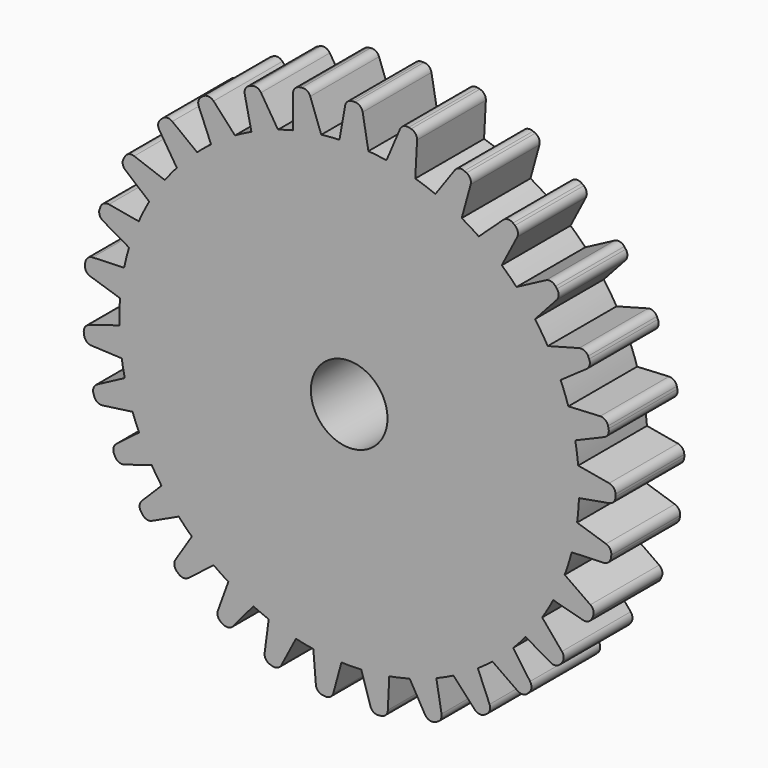
from build123d import *

# Parameters (mm, degrees)
F0_R     = 38.1
F0_R_2   = 6.35
F1_DEPTH = 7.874
F3_DEPTH = 7.8232
F5_DEPTH = 7.0358
F7_DEPTH = 6.35
F8_DEPTH = 14.2494


with BuildPart() as f1:
    # F0 (on Front) → F1 (new body)
    with BuildSketch(Plane.XZ):
        Circle(F0_R)
        Circle(F0_R_2, mode=Mode.SUBTRACT)
    extrude(amount=F1_DEPTH)

    # F2 (on Front) → F3, piece 2 (join)
    with BuildSketch(Plane.XZ):
        with BuildLine():
            Line((10.2679013204, 43.5190616955), (9.8696660429, 43.6108967437))
            ThreePointArc((9.8696660429, 43.6108967437), (9.0074367516, 43.5048095879), (8.4151223035, 42.8693118066))
            Line((8.4151223035, 42.8693118066), (5.9306011535, 37.012077868))
            Line((5.9306011535, 37.012077868), (10.9194045859, 35.8616348266))
            Line((10.9194045859, 35.8616348266), (11.2507987856, 42.2153906168))
            ThreePointArc((11.2507987856, 42.2153906168), (10.9965987869, 43.0460988665), (10.2679013204, 43.5190616955))
        make_face()
        with BuildLine():
            Line((19.447262607, 40.0796589121), (19.0780526418, 40.2548987873))
            ThreePointArc((19.0780526418, 40.2548987873), (18.2131635938, 40.3365123278), (17.498159972, 39.8430919631))
            Line((17.498159972, 39.8430919631), (13.8133931905, 34.6563272178))
            Line((13.8133931905, 34.6563272178), (18.438588511, 32.4610488469))
            Line((18.438588511, 32.4610488469), (20.1271586433, 38.5952778665))
            ThreePointArc((20.1271586433, 38.5952778665), (20.0573458836, 39.4611993491), (19.447262607, 40.0796589121))
        make_face()
        with BuildLine():
            Line((27.4769414982, 35.0250656384), (27.151967035, 35.2728893874))
            ThreePointArc((27.151967035, 35.2728893874), (26.3226671907, 35.5316471963), (25.5210603399, 35.1968035132))
            Line((25.5210603399, 35.1968035132), (20.8430662751, 30.8844484389))
            Line((20.8430662751, 30.8844484389), (24.9141112304, 27.7798918119))
            Line((24.9141112304, 27.7798918119), (27.8350754326, 33.432148254))
            ThreePointArc((27.8350754326, 33.432148254), (27.9458957222, 34.2937819922), (27.4769414982, 35.0250656384))
        make_face()
        with BuildLine():
            Line((34.4393508649, 28.0296262242), (34.1887403018, 28.3524564551))
            ThreePointArc((34.1887403018, 28.3524564551), (33.4534489752, 28.8151015679), (32.5928005942, 28.6968721315))
            Line((32.5928005942, 28.6968721315), (26.9658844918, 25.727385655))
            Line((26.9658844918, 25.727385655), (30.1053523095, 21.683202091))
            Line((30.1053523095, 21.683202091), (34.3772996584, 26.3981252723))
            ThreePointArc((34.3772996584, 26.3981252723), (34.7052341535, 27.2025833522), (34.4393508649, 28.0296262242))
        make_face()
        with BuildLine():
            Line((39.7699824109, 19.5339631284), (39.597263848, 19.9043592817))
            ThreePointArc((39.597263848, 19.9043592817), (38.9829781509, 20.5186449788), (38.1175527712, 20.5943598886))
            Line((38.1175527712, 20.5943598886), (31.9719538093, 18.9476516098))
            Line((31.9719538093, 18.9476516098), (34.1356470022, 14.3075965837))
            Line((34.1356470022, 14.3075965837), (39.3474135955, 17.9569148397))
            ThreePointArc((39.3474135955, 17.9569148397), (39.8456973207, 18.6685377487), (39.7699824109, 19.5339631284))
        make_face()
        with BuildLine():
            Line((42.9917894114, 10.4062598948), (42.8999346611, 10.8044906283))
            ThreePointArc((42.8999346611, 10.8044906283), (42.4269357812, 11.5331646947), (41.5962149563, 11.7873235948))
            Line((41.5962149563, 11.7873235948), (35.2424755692, 11.4556150511))
            Line((35.2424755692, 11.4556150511), (36.3931654243, 6.4668685416))
            Line((36.3931654243, 6.4668685416), (42.250276437, 8.9516794682))
            ThreePointArc((42.250276437, 8.9516794682), (42.8857449135, 9.544025356), (42.9917894114, 10.4062598948))
        make_face()
        with BuildLine():
            Line((44.1325830211, 0.834793291), (44.1325830211, 1.2434802278))
            ThreePointArc((44.1325830211, 1.2434802278), (43.8354594639, 2.0598204921), (43.0831162068, 2.4941860741))
            Line((43.0831162068, 2.4941860741), (36.8173830211, 3.5990038887))
            Line((36.8173830211, 3.5990038887), (36.8173830211, -1.5207303699))
            Line((36.8173830211, -1.5207303699), (43.0831162068, -0.4159125553))
            ThreePointArc((43.0831162068, -0.4159125553), (43.8354594639, 0.0184530267), (44.1325830211, 0.834793291))
        make_face()
        with BuildLine():
            Line((43.377571664, -8.3112167626), (43.4338103643, -7.9064177744))
            ThreePointArc((43.4338103643, -7.9064177744), (43.2518485908, -7.0569569169), (42.5664348713, -6.5231949209))
            Line((42.5664348713, -6.5231949209), (36.5123413503, -4.5666708611))
            Line((36.5123413503, -4.5666708611), (35.8078236009, -9.6376997132))
            Line((35.8078236009, -9.6376997132), (42.1659812474, -9.4056090008))
            ThreePointArc((42.1659812474, -9.4056090008), (42.9709395553, -9.0789043056), (43.377571664, -8.3112167626))
        make_face()
        with BuildLine():
            Line((40.2232244928, -18.1945638618), (40.3959430556, -17.8241677085))
            ThreePointArc((40.3959430556, -17.8241677085), (40.4716579655, -16.9587423288), (39.9733742403, -16.2471194198))
            Line((39.9733742403, -16.2471194198), (34.7616076469, -12.5978011638))
            Line((34.7616076469, -12.5978011638), (32.597914454, -17.2378561899))
            Line((32.597914454, -17.2378561899), (38.743513416, -18.8845644687))
            ThreePointArc((38.743513416, -18.8845644687), (39.6089387957, -18.8088495589), (40.2232244928, -18.1945638618))
        make_face()
        with BuildLine():
            Line((34.9914390476, -26.5393107242), (35.2541379468, -26.2262383673))
            ThreePointArc((35.2541379468, -26.2262383673), (35.551261504, -25.409898103), (35.2541379468, -24.5935578387))
            Line((35.2541379468, -24.5935578387), (31.16447106, -19.7196826339))
            Line((31.16447106, -19.7196826339), (27.8735693137, -23.6416266129))
            Line((27.8735693137, -23.6416266129), (33.3835626048, -26.8228227227))
            ThreePointArc((33.3835626048, -26.8228227227), (34.2390957905, -26.9736763062), (34.9914390476, -26.5393107242))
        make_face()
        with BuildLine():
            Line((29.5506001195, -32.5987355375), (29.8395854239, -32.3097502331))
            ThreePointArc((29.8395854239, -32.3097502331), (30.2067270783, -31.5224124143), (29.981882908, -30.6832825469))
            Line((29.981882908, -30.6832825469), (26.332564652, -25.4715159535))
            Line((26.332564652, -25.4715159535), (22.7123658399, -29.0917147656))
            Line((22.7123658399, -29.0917147656), (27.9241324332, -32.7410330217))
            ThreePointArc((27.9241324332, -32.7410330217), (28.7632623006, -32.965877192), (29.5506001195, -32.5987355375))
        make_face()
        with BuildLine():
            Line((22.4380749452, -37.9914671267), (22.7818615724, -37.7704789658))
            ThreePointArc((22.7818615724, -37.7704789658), (23.3079025545, -37.0791218073), (23.2664775103, -36.2113788724))
            Line((23.2664775103, -36.2113788724), (20.8077953917, -30.3432516587))
            Line((20.8077953917, -30.3432516587), (16.5010852566, -33.1116314538))
            Line((16.5010852566, -33.1116314538), (20.818508411, -37.7849484838))
            ThreePointArc((20.818508411, -37.7849484838), (21.5907083587, -38.1829448107), (22.4380749452, -37.9914671267))
        make_face()
        with BuildLine():
            Line((14.1053338125, -41.7560889597), (14.4895994704, -41.6169310766))
            ThreePointArc((14.4895994704, -41.6169310766), (15.1559883835, -41.0595984542), (15.3082254031, -40.2043103594))
            Line((15.3082254031, -40.2043103594), (14.2135424539, -33.9367985725))
            Line((14.2135424539, -33.9367985725), (9.3997403076, -35.6800678501))
            Line((9.3997403076, -35.6800678501), (12.5720210766, -41.1951988077))
            ThreePointArc((12.5720210766, -41.1951988077), (13.2366037845, -41.7546839815), (14.1053338125, -41.7560889597))
        make_face()
        with BuildLine():
            Line((4.8886085959, -43.7949606725), (5.2940297944, -43.7433984373))
            ThreePointArc((5.2940297944, -43.7433984373), (6.0663600678, -43.3456550725), (6.4023348752, -42.5445216478))
            Line((6.4023348752, -42.5445216478), (6.7078042775, -36.1894667149))
            Line((6.7078042775, -36.1894667149), (1.6289808253, -36.835401092))
            Line((1.6289808253, -36.835401092), (3.5154902811, -42.911676006))
            ThreePointArc((3.5154902811, -42.911676006), (4.041304775, -43.6032054366), (4.8886085959, -43.7949606725))
        make_face()
        with BuildLine():
            Line((-4.369675498, -43.8731547843), (-3.9627079504, -43.9106037837))
            ThreePointArc((-3.9627079504, -43.9106037837), (-3.1225759463, -43.6895335435), (-2.6210987044, -42.9801574717))
            Line((-2.6210987044, -42.9801574717), (-0.9467842756, -36.8420220912))
            Line((-0.9467842756, -36.8420220912), (-6.0449792695, -36.3728881203))
            Line((-6.0449792695, -36.3728881203), (-5.5189542405, -42.7134979038))
            ThreePointArc((-5.5189542405, -42.7134979038), (-5.1553551625, -43.5024779706), (-4.369675498, -43.8731547843))
        make_face()
        with BuildLine():
            Line((-13.1343358268, -42.2133241095), (-12.7445647982, -42.3362206416))
            ThreePointArc((-12.7445647982, -42.3362206416), (-11.8766602793, -42.2983315739), (-11.2361614687, -41.711428593))
            Line((-11.2361614687, -41.711428593), (-8.2983067259, -36.0679328442))
            Line((-8.2983067259, -36.0679328442), (-13.1810761718, -34.5283740057))
            Line((-13.1810761718, -34.5283740057), (-14.0115673696, -40.8363308165))
            ThreePointArc((-14.0115673696, -40.8363308165), (-13.8235438839, -41.6844705481), (-13.1343358268, -42.2133241095))
        make_face()
        with BuildLine():
            Line((-21.1964485851, -38.7163909075), (-20.8422183259, -38.9202191092))
            ThreePointArc((-20.8422183259, -38.9202191092), (-19.9864665212, -39.0698275452), (-19.2347561576, -38.6343675991))
            Line((-19.2347561576, -38.6343675991), (-15.1521861553, -33.7545461953))
            Line((-15.1521861553, -33.7545461953), (-19.5897265556, -31.201133954))
            Line((-19.5897265556, -31.201133954), (-21.7570902447, -37.1829872953))
            ThreePointArc((-21.7570902447, -37.1829872953), (-21.7558260509, -38.0517175395), (-21.1964485851, -38.7163909075))
        make_face()
        with BuildLine():
            Line((-28.5795182013, -33.6574874121), (-28.2782419609, -33.9336352698))
            ThreePointArc((-28.2782419609, -33.9336352698), (-27.475686435, -34.2661987423), (-26.6471255545, -34.0050843943))
            Line((-26.6471255545, -34.0050843943), (-21.5989481658, -30.132625252))
            Line((-21.5989481658, -30.132625252), (-25.3731189313, -26.6732446845))
            Line((-25.3731189313, -26.6732446845), (-28.7923949411, -32.0387443188))
            ThreePointArc((-28.7923949411, -32.0387443188), (-28.9805437226, -32.8868562639), (-28.5795182013, -33.6574874121))
        make_face()
        with BuildLine():
            Line((-34.5026981003, -26.8843930355), (-34.2682849035, -27.2191697753))
            ThreePointArc((-34.2682849035, -27.2191697753), (-33.5566619946, -27.7174535005), (-32.6912366149, -27.6417385906))
            Line((-32.6912366149, -27.6417385906), (-26.924951002, -24.9528754503))
            Line((-26.924951002, -24.9528754503), (-29.8615099331, -20.7590346661))
            Line((-29.8615099331, -20.7590346661), (-34.3604006162, -25.2579253492))
            ThreePointArc((-34.3604006162, -25.2579253492), (-34.7275422707, -26.0452631681), (-34.5026981003, -26.8843930355))
        make_face()
        with BuildLine():
            Line((-38.9540461379, -19.9297172706), (-38.7663086186, -20.2927319207))
            ThreePointArc((-38.7663086186, -20.2927319207), (-38.127389493, -20.8813541989), (-37.2595899401, -20.9215757267))
            Line((-37.2595899401, -20.9215757267), (-31.1865583062, -19.0246514976))
            Line((-31.1865583062, -19.0246514976), (-33.5383981196, -14.4770666033))
            Line((-33.5383981196, -14.4770666033), (-38.596394835, -18.3366914534))
            ThreePointArc((-38.596394835, -18.3366914534), (-39.0651274764, -19.0681171478), (-38.9540461379, -19.9297172706))
        make_face()
        with BuildLine():
            Line((-42.3819013326, -12.2005909419), (-42.2565982872, -12.5895950025))
            ThreePointArc((-42.2565982872, -12.5895950025), (-41.7234953866, -13.2755214802), (-40.874209831, -13.4582997076))
            Line((-40.874209831, -13.4582997076), (-34.571506083, -12.588839978))
            Line((-34.571506083, -12.588839978), (-36.1412119784, -7.7156785524))
            Line((-36.1412119784, -7.7156785524), (-41.7664434401, -10.6883550836))
            ThreePointArc((-41.7664434401, -10.6883550836), (-42.3493768061, -11.3324688361), (-42.3819013326, -12.2005909419))
        make_face()
        with BuildLine():
            Line((-43.9796825657, -3.81763871), (-43.9268983461, -4.2229026221))
            ThreePointArc((-43.9268983461, -4.2229026221), (-43.5268284532, -4.9940303134), (-42.7246858095, -5.3275884261))
            Line((-42.7246858095, -5.3275884261), (-36.3687388599, -5.6138979271))
            Line((-36.3687388599, -5.6138979271), (-37.0299813742, -0.5370448452))
            Line((-37.0299813742, -0.5370448452), (-43.1005414375, -2.4418638065))
            ThreePointArc((-43.1005414375, -2.4418638065), (-43.7904825586, -2.9697606571), (-43.9796825657, -3.81763871))
        make_face()
        with BuildLine():
            Line((-43.7294851204, 6.5065346274), (-43.7854562222, 6.1016985518))
            ThreePointArc((-43.7854562222, 6.1016985518), (-43.6029329651, 5.252358163), (-42.9171665599, 4.719049366))
            Line((-42.9171665599, 4.719049366), (-36.8617810309, 2.7665277012))
            Line((-36.8617810309, 2.7665277012), (-36.1606155627, 7.8380211562))
            Line((-36.1606155627, 7.8380211562), (-42.5186184, 7.60172753))
            ThreePointArc((-42.5186184, 7.60172753), (-43.3233605689, 7.2744908006), (-43.7294851204, 6.5065346274))
        make_face()
        with BuildLine():
            Line((-41.2175685952, 15.404759065), (-41.3573477599, 15.0207189662))
            ThreePointArc((-41.3573477599, 15.0207189662), (-41.3573477599, 14.1519878022), (-40.7989381315, 13.4865011214))
            Line((-40.7989381315, 13.4865011214), (-35.2889448404, 10.3053050116))
            Line((-35.2889448404, 10.3053050116), (-33.5378925955, 15.1162815147))
            Line((-33.5378925955, 15.1162815147), (-39.8036257812, 16.2210993293))
            ThreePointArc((-39.8036257812, 16.2210993293), (-40.6591589668, 16.0702457458), (-41.2175685952, 15.404759065))
        make_face()
        with BuildLine():
            Line((-37.1665118395, 24.0645031643), (-37.3708553079, 23.7105698948))
            ThreePointArc((-37.3708553079, 23.7105698948), (-37.5217088914, 22.8550367092), (-37.0873433094, 22.1026934521))
            Line((-37.0873433094, 22.1026934521), (-32.2134681046, 18.0130265653))
            Line((-32.2134681046, 18.0130265653), (-29.6536009753, 22.4468464938))
            Line((-29.6536009753, 22.4468464938), (-35.6322939947, 24.6229127927))
            ThreePointArc((-35.6322939947, 24.6229127927), (-36.5010251587, 24.6229127927), (-37.1665118395, 24.0645031643))
        make_face()
        with BuildLine():
            Line((-30.9443189455, 31.6571580291), (-31.2457878784, 31.3812205456))
            ThreePointArc((-31.2457878784, 31.3812205456), (-31.6473512437, 30.6108695223), (-31.4597945353, 29.762626446))
            Line((-31.4597945353, 29.762626446), (-28.0442647636, 24.3947412819))
            Line((-28.0442647636, 24.3947412819), (-24.2676800854, 27.851486434))
            Line((-24.2676800854, 27.851486434), (-29.3131530612, 31.7274685299))
            ThreePointArc((-29.3131530612, 31.7274685299), (-30.1415314681, 31.989161194), (-30.9443189455, 31.6571580291))
        make_face()
        with BuildLine():
            Line((-24.0892848676, 37.1402189038), (-24.4337996021, 36.9203675675))
            ThreePointArc((-24.4337996021, 36.9203675675), (-24.9621214515, 36.2307518348), (-24.92356302, 35.3628767961))
            Line((-24.92356302, 35.3628767961), (-22.4842783064, 29.4866599143))
            Line((-22.4842783064, 29.4866599143), (-18.1684469702, 32.2407983922))
            Line((-18.1684469702, 32.2407983922), (-22.4704093557, 36.9283515269))
            ThreePointArc((-22.4704093557, 36.9283515269), (-23.2412904023, 37.328896465), (-24.0892848676, 37.1402189038))
        make_face()
        with BuildLine():
            Line((-16.1651956467, 41.207804094), (-16.5436923754, 41.053644311))
            ThreePointArc((-16.5436923754, 41.053644311), (-17.1876513394, 40.4705399567), (-17.3061402712, 39.6099272631))
            Line((-17.3061402712, 39.6099272631), (-15.9658621997, 33.3903059363))
            Line((-15.9658621997, 33.3903059363), (-11.2243290258, 35.3215081627))
            Line((-11.2243290258, 35.3215081627), (-14.611014217, 40.7076383293))
            ThreePointArc((-14.611014217, 40.7076383293), (-15.2970822066, 41.2405591012), (-16.1651956467, 41.207804094))
        make_face()
        with BuildLine():
            Line((-7.8621423412, 43.6358739028), (-8.2646204052, 43.564906161))
            ThreePointArc((-8.2646204052, 43.564906161), (-9.0169636623, 43.130540579), (-9.3140872195, 42.3142003146))
            Line((-9.3140872195, 42.3142003146), (-9.3140872195, 35.951808095))
            Line((-9.3140872195, 35.951808095), (-4.2721332283, 36.8408406191))
            Line((-4.2721332283, 36.8408406191), (-6.4481995272, 42.8195336385))
            ThreePointArc((-6.4481995272, 42.8195336385), (-7.0066091556, 43.4850203193), (-7.8621423412, 43.6358739028))
        make_face()
        with BuildLine():
            Line((0.9862106797, 44.3999471058), (0.5775237429, 44.3999471058))
            ThreePointArc((0.5775237429, 44.3999471058), (-0.2388165214, 44.1028235486), (-0.6731821034, 43.3504802915))
            Line((-0.6731821034, 43.3504802915), (-1.777999918, 37.0847471058))
            Line((-1.777999918, 37.0847471058), (3.3417343406, 37.0847471058))
            Line((3.3417343406, 37.0847471058), (2.236916526, 43.3504802915))
            ThreePointArc((2.236916526, 43.3504802915), (1.802550944, 44.1028235486), (0.9862106797, 44.3999471058))
        make_face()
    extrude(amount=F3_DEPTH)

    # F2 (on Front) → F5, piece 2 (join)
    with BuildSketch(Plane.XZ):
        with BuildLine():
            Line((10.2679013204, 43.5190616955), (9.8696660429, 43.6108967437))
            ThreePointArc((9.8696660429, 43.6108967437), (9.0074367516, 43.5048095879), (8.4151223035, 42.8693118066))
            Line((8.4151223035, 42.8693118066), (5.9306011535, 37.012077868))
            Line((5.9306011535, 37.012077868), (10.9194045859, 35.8616348266))
            Line((10.9194045859, 35.8616348266), (11.2507987856, 42.2153906168))
            ThreePointArc((11.2507987856, 42.2153906168), (10.9965987869, 43.0460988665), (10.2679013204, 43.5190616955))
        make_face()
        with BuildLine():
            Line((19.447262607, 40.0796589121), (19.0780526418, 40.2548987873))
            ThreePointArc((19.0780526418, 40.2548987873), (18.2131635938, 40.3365123278), (17.498159972, 39.8430919631))
            Line((17.498159972, 39.8430919631), (13.8133931905, 34.6563272178))
            Line((13.8133931905, 34.6563272178), (18.438588511, 32.4610488469))
            Line((18.438588511, 32.4610488469), (20.1271586433, 38.5952778665))
            ThreePointArc((20.1271586433, 38.5952778665), (20.0573458836, 39.4611993491), (19.447262607, 40.0796589121))
        make_face()
        with BuildLine():
            Line((27.4769414982, 35.0250656384), (27.151967035, 35.2728893874))
            ThreePointArc((27.151967035, 35.2728893874), (26.3226671907, 35.5316471963), (25.5210603399, 35.1968035132))
            Line((25.5210603399, 35.1968035132), (20.8430662751, 30.8844484389))
            Line((20.8430662751, 30.8844484389), (24.9141112304, 27.7798918119))
            Line((24.9141112304, 27.7798918119), (27.8350754326, 33.432148254))
            ThreePointArc((27.8350754326, 33.432148254), (27.9458957222, 34.2937819922), (27.4769414982, 35.0250656384))
        make_face()
        with BuildLine():
            Line((34.4393508649, 28.0296262242), (34.1887403018, 28.3524564551))
            ThreePointArc((34.1887403018, 28.3524564551), (33.4534489752, 28.8151015679), (32.5928005942, 28.6968721315))
            Line((32.5928005942, 28.6968721315), (26.9658844918, 25.727385655))
            Line((26.9658844918, 25.727385655), (30.1053523095, 21.683202091))
            Line((30.1053523095, 21.683202091), (34.3772996584, 26.3981252723))
            ThreePointArc((34.3772996584, 26.3981252723), (34.7052341535, 27.2025833522), (34.4393508649, 28.0296262242))
        make_face()
        with BuildLine():
            Line((39.7699824109, 19.5339631284), (39.597263848, 19.9043592817))
            ThreePointArc((39.597263848, 19.9043592817), (38.9829781509, 20.5186449788), (38.1175527712, 20.5943598886))
            Line((38.1175527712, 20.5943598886), (31.9719538093, 18.9476516098))
            Line((31.9719538093, 18.9476516098), (34.1356470022, 14.3075965837))
            Line((34.1356470022, 14.3075965837), (39.3474135955, 17.9569148397))
            ThreePointArc((39.3474135955, 17.9569148397), (39.8456973207, 18.6685377487), (39.7699824109, 19.5339631284))
        make_face()
        with BuildLine():
            Line((42.9917894114, 10.4062598948), (42.8999346611, 10.8044906283))
            ThreePointArc((42.8999346611, 10.8044906283), (42.4269357812, 11.5331646947), (41.5962149563, 11.7873235948))
            Line((41.5962149563, 11.7873235948), (35.2424755692, 11.4556150511))
            Line((35.2424755692, 11.4556150511), (36.3931654243, 6.4668685416))
            Line((36.3931654243, 6.4668685416), (42.250276437, 8.9516794682))
            ThreePointArc((42.250276437, 8.9516794682), (42.8857449135, 9.544025356), (42.9917894114, 10.4062598948))
        make_face()
        with BuildLine():
            Line((44.1325830211, 0.834793291), (44.1325830211, 1.2434802278))
            ThreePointArc((44.1325830211, 1.2434802278), (43.8354594639, 2.0598204921), (43.0831162068, 2.4941860741))
            Line((43.0831162068, 2.4941860741), (36.8173830211, 3.5990038887))
            Line((36.8173830211, 3.5990038887), (36.8173830211, -1.5207303699))
            Line((36.8173830211, -1.5207303699), (43.0831162068, -0.4159125553))
            ThreePointArc((43.0831162068, -0.4159125553), (43.8354594639, 0.0184530267), (44.1325830211, 0.834793291))
        make_face()
        with BuildLine():
            Line((43.377571664, -8.3112167626), (43.4338103643, -7.9064177744))
            ThreePointArc((43.4338103643, -7.9064177744), (43.2518485908, -7.0569569169), (42.5664348713, -6.5231949209))
            Line((42.5664348713, -6.5231949209), (36.5123413503, -4.5666708611))
            Line((36.5123413503, -4.5666708611), (35.8078236009, -9.6376997132))
            Line((35.8078236009, -9.6376997132), (42.1659812474, -9.4056090008))
            ThreePointArc((42.1659812474, -9.4056090008), (42.9709395553, -9.0789043056), (43.377571664, -8.3112167626))
        make_face()
        with BuildLine():
            Line((40.2232244928, -18.1945638618), (40.3959430556, -17.8241677085))
            ThreePointArc((40.3959430556, -17.8241677085), (40.4716579655, -16.9587423288), (39.9733742403, -16.2471194198))
            Line((39.9733742403, -16.2471194198), (34.7616076469, -12.5978011638))
            Line((34.7616076469, -12.5978011638), (32.597914454, -17.2378561899))
            Line((32.597914454, -17.2378561899), (38.743513416, -18.8845644687))
            ThreePointArc((38.743513416, -18.8845644687), (39.6089387957, -18.8088495589), (40.2232244928, -18.1945638618))
        make_face()
        with BuildLine():
            Line((34.9914390476, -26.5393107242), (35.2541379468, -26.2262383673))
            ThreePointArc((35.2541379468, -26.2262383673), (35.551261504, -25.409898103), (35.2541379468, -24.5935578387))
            Line((35.2541379468, -24.5935578387), (31.16447106, -19.7196826339))
            Line((31.16447106, -19.7196826339), (27.8735693137, -23.6416266129))
            Line((27.8735693137, -23.6416266129), (33.3835626048, -26.8228227227))
            ThreePointArc((33.3835626048, -26.8228227227), (34.2390957905, -26.9736763062), (34.9914390476, -26.5393107242))
        make_face()
        with BuildLine():
            Line((29.5506001195, -32.5987355375), (29.8395854239, -32.3097502331))
            ThreePointArc((29.8395854239, -32.3097502331), (30.2067270783, -31.5224124143), (29.981882908, -30.6832825469))
            Line((29.981882908, -30.6832825469), (26.332564652, -25.4715159535))
            Line((26.332564652, -25.4715159535), (22.7123658399, -29.0917147656))
            Line((22.7123658399, -29.0917147656), (27.9241324332, -32.7410330217))
            ThreePointArc((27.9241324332, -32.7410330217), (28.7632623006, -32.965877192), (29.5506001195, -32.5987355375))
        make_face()
        with BuildLine():
            Line((22.4380749452, -37.9914671267), (22.7818615724, -37.7704789658))
            ThreePointArc((22.7818615724, -37.7704789658), (23.3079025545, -37.0791218073), (23.2664775103, -36.2113788724))
            Line((23.2664775103, -36.2113788724), (20.8077953917, -30.3432516587))
            Line((20.8077953917, -30.3432516587), (16.5010852566, -33.1116314538))
            Line((16.5010852566, -33.1116314538), (20.818508411, -37.7849484838))
            ThreePointArc((20.818508411, -37.7849484838), (21.5907083587, -38.1829448107), (22.4380749452, -37.9914671267))
        make_face()
        with BuildLine():
            Line((14.1053338125, -41.7560889597), (14.4895994704, -41.6169310766))
            ThreePointArc((14.4895994704, -41.6169310766), (15.1559883835, -41.0595984542), (15.3082254031, -40.2043103594))
            Line((15.3082254031, -40.2043103594), (14.2135424539, -33.9367985725))
            Line((14.2135424539, -33.9367985725), (9.3997403076, -35.6800678501))
            Line((9.3997403076, -35.6800678501), (12.5720210766, -41.1951988077))
            ThreePointArc((12.5720210766, -41.1951988077), (13.2366037845, -41.7546839815), (14.1053338125, -41.7560889597))
        make_face()
        with BuildLine():
            Line((4.8886085959, -43.7949606725), (5.2940297944, -43.7433984373))
            ThreePointArc((5.2940297944, -43.7433984373), (6.0663600678, -43.3456550725), (6.4023348752, -42.5445216478))
            Line((6.4023348752, -42.5445216478), (6.7078042775, -36.1894667149))
            Line((6.7078042775, -36.1894667149), (1.6289808253, -36.835401092))
            Line((1.6289808253, -36.835401092), (3.5154902811, -42.911676006))
            ThreePointArc((3.5154902811, -42.911676006), (4.041304775, -43.6032054366), (4.8886085959, -43.7949606725))
        make_face()
        with BuildLine():
            Line((-4.369675498, -43.8731547843), (-3.9627079504, -43.9106037837))
            ThreePointArc((-3.9627079504, -43.9106037837), (-3.1225759463, -43.6895335435), (-2.6210987044, -42.9801574717))
            Line((-2.6210987044, -42.9801574717), (-0.9467842756, -36.8420220912))
            Line((-0.9467842756, -36.8420220912), (-6.0449792695, -36.3728881203))
            Line((-6.0449792695, -36.3728881203), (-5.5189542405, -42.7134979038))
            ThreePointArc((-5.5189542405, -42.7134979038), (-5.1553551625, -43.5024779706), (-4.369675498, -43.8731547843))
        make_face()
        with BuildLine():
            Line((-13.1343358268, -42.2133241095), (-12.7445647982, -42.3362206416))
            ThreePointArc((-12.7445647982, -42.3362206416), (-11.8766602793, -42.2983315739), (-11.2361614687, -41.711428593))
            Line((-11.2361614687, -41.711428593), (-8.2983067259, -36.0679328442))
            Line((-8.2983067259, -36.0679328442), (-13.1810761718, -34.5283740057))
            Line((-13.1810761718, -34.5283740057), (-14.0115673696, -40.8363308165))
            ThreePointArc((-14.0115673696, -40.8363308165), (-13.8235438839, -41.6844705481), (-13.1343358268, -42.2133241095))
        make_face()
        with BuildLine():
            Line((-21.1964485851, -38.7163909075), (-20.8422183259, -38.9202191092))
            ThreePointArc((-20.8422183259, -38.9202191092), (-19.9864665212, -39.0698275452), (-19.2347561576, -38.6343675991))
            Line((-19.2347561576, -38.6343675991), (-15.1521861553, -33.7545461953))
            Line((-15.1521861553, -33.7545461953), (-19.5897265556, -31.201133954))
            Line((-19.5897265556, -31.201133954), (-21.7570902447, -37.1829872953))
            ThreePointArc((-21.7570902447, -37.1829872953), (-21.7558260509, -38.0517175395), (-21.1964485851, -38.7163909075))
        make_face()
        with BuildLine():
            Line((-28.5795182013, -33.6574874121), (-28.2782419609, -33.9336352698))
            ThreePointArc((-28.2782419609, -33.9336352698), (-27.475686435, -34.2661987423), (-26.6471255545, -34.0050843943))
            Line((-26.6471255545, -34.0050843943), (-21.5989481658, -30.132625252))
            Line((-21.5989481658, -30.132625252), (-25.3731189313, -26.6732446845))
            Line((-25.3731189313, -26.6732446845), (-28.7923949411, -32.0387443188))
            ThreePointArc((-28.7923949411, -32.0387443188), (-28.9805437226, -32.8868562639), (-28.5795182013, -33.6574874121))
        make_face()
        with BuildLine():
            Line((-34.5026981003, -26.8843930355), (-34.2682849035, -27.2191697753))
            ThreePointArc((-34.2682849035, -27.2191697753), (-33.5566619946, -27.7174535005), (-32.6912366149, -27.6417385906))
            Line((-32.6912366149, -27.6417385906), (-26.924951002, -24.9528754503))
            Line((-26.924951002, -24.9528754503), (-29.8615099331, -20.7590346661))
            Line((-29.8615099331, -20.7590346661), (-34.3604006162, -25.2579253492))
            ThreePointArc((-34.3604006162, -25.2579253492), (-34.7275422707, -26.0452631681), (-34.5026981003, -26.8843930355))
        make_face()
        with BuildLine():
            Line((-38.9540461379, -19.9297172706), (-38.7663086186, -20.2927319207))
            ThreePointArc((-38.7663086186, -20.2927319207), (-38.127389493, -20.8813541989), (-37.2595899401, -20.9215757267))
            Line((-37.2595899401, -20.9215757267), (-31.1865583062, -19.0246514976))
            Line((-31.1865583062, -19.0246514976), (-33.5383981196, -14.4770666033))
            Line((-33.5383981196, -14.4770666033), (-38.596394835, -18.3366914534))
            ThreePointArc((-38.596394835, -18.3366914534), (-39.0651274764, -19.0681171478), (-38.9540461379, -19.9297172706))
        make_face()
        with BuildLine():
            Line((-42.3819013326, -12.2005909419), (-42.2565982872, -12.5895950025))
            ThreePointArc((-42.2565982872, -12.5895950025), (-41.7234953866, -13.2755214802), (-40.874209831, -13.4582997076))
            Line((-40.874209831, -13.4582997076), (-34.571506083, -12.588839978))
            Line((-34.571506083, -12.588839978), (-36.1412119784, -7.7156785524))
            Line((-36.1412119784, -7.7156785524), (-41.7664434401, -10.6883550836))
            ThreePointArc((-41.7664434401, -10.6883550836), (-42.3493768061, -11.3324688361), (-42.3819013326, -12.2005909419))
        make_face()
        with BuildLine():
            Line((-43.9796825657, -3.81763871), (-43.9268983461, -4.2229026221))
            ThreePointArc((-43.9268983461, -4.2229026221), (-43.5268284532, -4.9940303134), (-42.7246858095, -5.3275884261))
            Line((-42.7246858095, -5.3275884261), (-36.3687388599, -5.6138979271))
            Line((-36.3687388599, -5.6138979271), (-37.0299813742, -0.5370448452))
            Line((-37.0299813742, -0.5370448452), (-43.1005414375, -2.4418638065))
            ThreePointArc((-43.1005414375, -2.4418638065), (-43.7904825586, -2.9697606571), (-43.9796825657, -3.81763871))
        make_face()
        with BuildLine():
            Line((-43.7294851204, 6.5065346274), (-43.7854562222, 6.1016985518))
            ThreePointArc((-43.7854562222, 6.1016985518), (-43.6029329651, 5.252358163), (-42.9171665599, 4.719049366))
            Line((-42.9171665599, 4.719049366), (-36.8617810309, 2.7665277012))
            Line((-36.8617810309, 2.7665277012), (-36.1606155627, 7.8380211562))
            Line((-36.1606155627, 7.8380211562), (-42.5186184, 7.60172753))
            ThreePointArc((-42.5186184, 7.60172753), (-43.3233605689, 7.2744908006), (-43.7294851204, 6.5065346274))
        make_face()
        with BuildLine():
            Line((-41.2175685952, 15.404759065), (-41.3573477599, 15.0207189662))
            ThreePointArc((-41.3573477599, 15.0207189662), (-41.3573477599, 14.1519878022), (-40.7989381315, 13.4865011214))
            Line((-40.7989381315, 13.4865011214), (-35.2889448404, 10.3053050116))
            Line((-35.2889448404, 10.3053050116), (-33.5378925955, 15.1162815147))
            Line((-33.5378925955, 15.1162815147), (-39.8036257812, 16.2210993293))
            ThreePointArc((-39.8036257812, 16.2210993293), (-40.6591589668, 16.0702457458), (-41.2175685952, 15.404759065))
        make_face()
        with BuildLine():
            Line((-37.1665118395, 24.0645031643), (-37.3708553079, 23.7105698948))
            ThreePointArc((-37.3708553079, 23.7105698948), (-37.5217088914, 22.8550367092), (-37.0873433094, 22.1026934521))
            Line((-37.0873433094, 22.1026934521), (-32.2134681046, 18.0130265653))
            Line((-32.2134681046, 18.0130265653), (-29.6536009753, 22.4468464938))
            Line((-29.6536009753, 22.4468464938), (-35.6322939947, 24.6229127927))
            ThreePointArc((-35.6322939947, 24.6229127927), (-36.5010251587, 24.6229127927), (-37.1665118395, 24.0645031643))
        make_face()
        with BuildLine():
            Line((-30.9443189455, 31.6571580291), (-31.2457878784, 31.3812205456))
            ThreePointArc((-31.2457878784, 31.3812205456), (-31.6473512437, 30.6108695223), (-31.4597945353, 29.762626446))
            Line((-31.4597945353, 29.762626446), (-28.0442647636, 24.3947412819))
            Line((-28.0442647636, 24.3947412819), (-24.2676800854, 27.851486434))
            Line((-24.2676800854, 27.851486434), (-29.3131530612, 31.7274685299))
            ThreePointArc((-29.3131530612, 31.7274685299), (-30.1415314681, 31.989161194), (-30.9443189455, 31.6571580291))
        make_face()
        with BuildLine():
            Line((-24.0892848676, 37.1402189038), (-24.4337996021, 36.9203675675))
            ThreePointArc((-24.4337996021, 36.9203675675), (-24.9621214515, 36.2307518348), (-24.92356302, 35.3628767961))
            Line((-24.92356302, 35.3628767961), (-22.4842783064, 29.4866599143))
            Line((-22.4842783064, 29.4866599143), (-18.1684469702, 32.2407983922))
            Line((-18.1684469702, 32.2407983922), (-22.4704093557, 36.9283515269))
            ThreePointArc((-22.4704093557, 36.9283515269), (-23.2412904023, 37.328896465), (-24.0892848676, 37.1402189038))
        make_face()
        with BuildLine():
            Line((-16.1651956467, 41.207804094), (-16.5436923754, 41.053644311))
            ThreePointArc((-16.5436923754, 41.053644311), (-17.1876513394, 40.4705399567), (-17.3061402712, 39.6099272631))
            Line((-17.3061402712, 39.6099272631), (-15.9658621997, 33.3903059363))
            Line((-15.9658621997, 33.3903059363), (-11.2243290258, 35.3215081627))
            Line((-11.2243290258, 35.3215081627), (-14.611014217, 40.7076383293))
            ThreePointArc((-14.611014217, 40.7076383293), (-15.2970822066, 41.2405591012), (-16.1651956467, 41.207804094))
        make_face()
        with BuildLine():
            Line((-7.8621423412, 43.6358739028), (-8.2646204052, 43.564906161))
            ThreePointArc((-8.2646204052, 43.564906161), (-9.0169636623, 43.130540579), (-9.3140872195, 42.3142003146))
            Line((-9.3140872195, 42.3142003146), (-9.3140872195, 35.951808095))
            Line((-9.3140872195, 35.951808095), (-4.2721332283, 36.8408406191))
            Line((-4.2721332283, 36.8408406191), (-6.4481995272, 42.8195336385))
            ThreePointArc((-6.4481995272, 42.8195336385), (-7.0066091556, 43.4850203193), (-7.8621423412, 43.6358739028))
        make_face()
        with BuildLine():
            Line((0.9862106797, 44.3999471058), (0.5775237429, 44.3999471058))
            ThreePointArc((0.5775237429, 44.3999471058), (-0.2388165214, 44.1028235486), (-0.6731821034, 43.3504802915))
            Line((-0.6731821034, 43.3504802915), (-1.777999918, 37.0847471058))
            Line((-1.777999918, 37.0847471058), (3.3417343406, 37.0847471058))
            Line((3.3417343406, 37.0847471058), (2.236916526, 43.3504802915))
            ThreePointArc((2.236916526, 43.3504802915), (1.802550944, 44.1028235486), (0.9862106797, 44.3999471058))
        make_face()
    extrude(amount=F5_DEPTH)

    # F7 (add): a face of the model
    f7_faces = [f1.faces().sort_by_distance(p)[0] for p in [
        (-37.0223692655, -7.874, 0),
    ]]
    extrude(f7_faces, amount=F7_DEPTH)

    # F8 (add): a face of the model
    f8_faces = [f1.faces().sort_by_distance(p)[0] for p in [
        (40.2989240677, 0, 1.7182564085),
    ]]
    extrude(f8_faces, amount=-F8_DEPTH)


with BuildPart() as f3:
    # F2 (on Front) → F3 (new body)
    with BuildSketch(Plane.XZ):
        with BuildLine():
            Line((-57.5872239133, 24.5827716867), (-57.9959108501, 24.5827716867))
            ThreePointArc((-57.9959108501, 24.5827716867), (-58.8122511144, 24.2856481294), (-59.2466166965, 23.5333048723))
            Line((-59.2466166965, 23.5333048723), (-60.351434511, 17.2675716867))
            Line((-60.351434511, 17.2675716867), (-55.2317002524, 17.2675716867))
            Line((-55.2317002524, 17.2675716867), (-56.336518067, 23.5333048723))
            ThreePointArc((-56.336518067, 23.5333048723), (-56.770883649, 24.2856481294), (-57.5872239133, 24.5827716867))
        make_face()
    extrude(amount=F3_DEPTH)


with BuildPart() as f5:
    # F2 (on Front) → F5 (new body)
    with BuildSketch(Plane.XZ):
        with BuildLine():
            Line((-57.5872239133, 24.5827716867), (-57.9959108501, 24.5827716867))
            ThreePointArc((-57.9959108501, 24.5827716867), (-58.8122511144, 24.2856481294), (-59.2466166965, 23.5333048723))
            Line((-59.2466166965, 23.5333048723), (-60.351434511, 17.2675716867))
            Line((-60.351434511, 17.2675716867), (-55.2317002524, 17.2675716867))
            Line((-55.2317002524, 17.2675716867), (-56.336518067, 23.5333048723))
            ThreePointArc((-56.336518067, 23.5333048723), (-56.770883649, 24.2856481294), (-57.5872239133, 24.5827716867))
        make_face()
    extrude(amount=F5_DEPTH)


solid = f1.part
